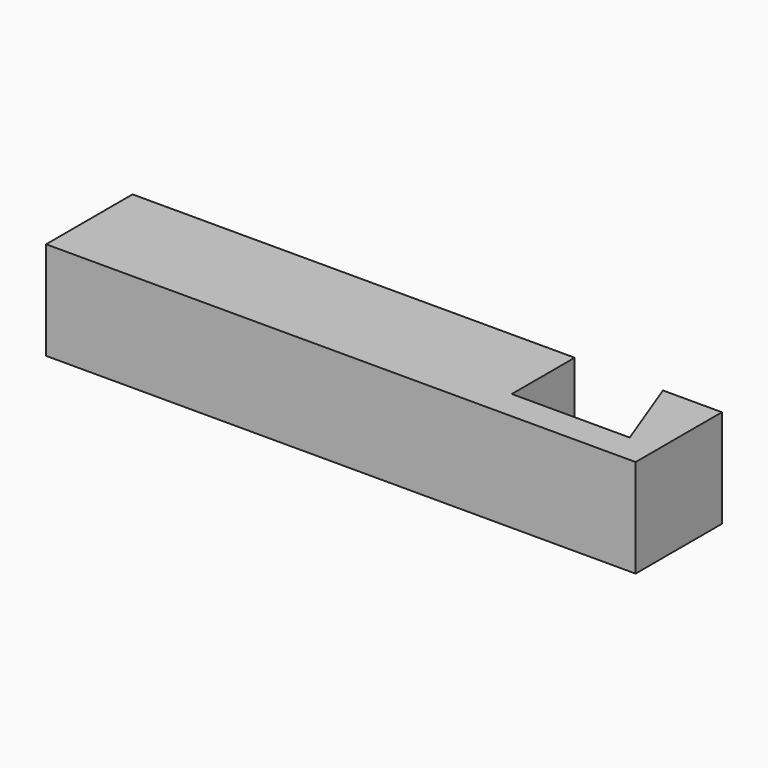
from build123d import *

# Parameters (mm, degrees)
EXTRUDE_DEPTH = 10


with BuildPart() as part:
    # Sketch → Extrude (new body)
    with BuildSketch(Plane.XY):
        Polygon((0, 0), (60, 0), (60, 10.981122), (54, 10.981122), (57, 3), (45, 3), (45, 11), (0, 11), align=None)
    extrude(amount=EXTRUDE_DEPTH)


solid = part.part
